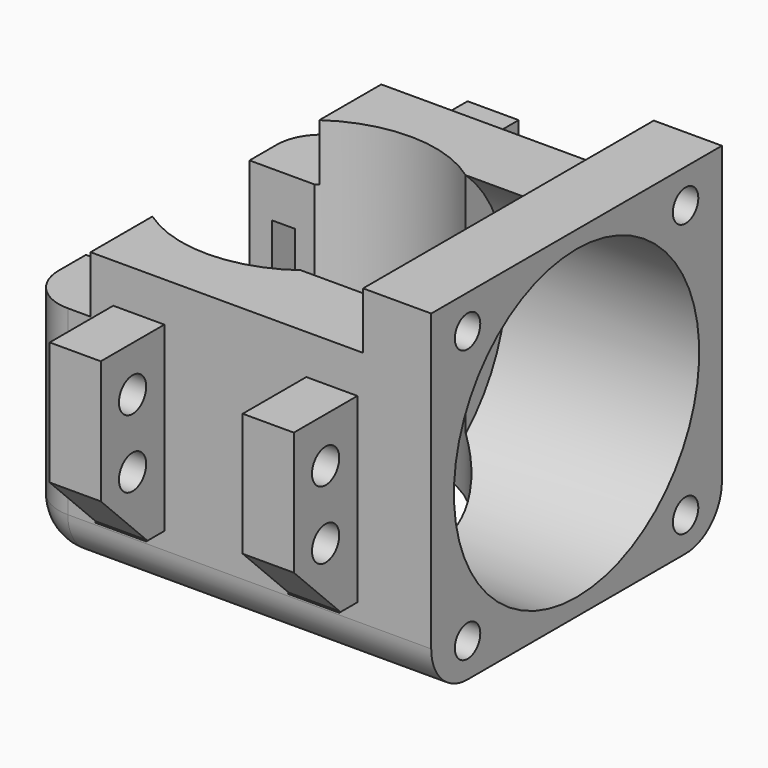
from build123d import *

# Parameters (mm, degrees)
BOX010_W                = 22
BOX010_H                = 10
BOX010_DEPTH            = 10
BOX010_ROLL_ANGLE       = 45
BOX009_W                = 22
BOX009_H                = 10
BOX009_DEPTH            = 10
BOX009_ROLL_ANGLE       = 45
CYLINDER010_R           = 1.5
CYLINDER010_DEPTH       = 40
CYLINDER010_PITCH_ANGLE = 90
CYLINDER011_R           = 1.5
CYLINDER011_DEPTH       = 40
CYLINDER011_PITCH_ANGLE = 90
CYLINDER012_R           = 1.5
CYLINDER012_DEPTH       = 40
CYLINDER012_PITCH_ANGLE = 90
CYLINDER009_R           = 1.5
CYLINDER009_DEPTH       = 40
CYLINDER009_PITCH_ANGLE = 90
BOX004_W                = 2
BOX004_H                = 32
BOX004_DEPTH            = 6
CYLINDER_R              = 11.2
CYLINDER_DEPTH          = 25
CYLINDER001_R           = 13.5
CYLINDER001_DEPTH       = 18
CYLINDER001_PITCH_ANGLE = 90
CYLINDER003_R           = 1.4
CYLINDER003_DEPTH       = 20
CYLINDER003_PITCH_ANGLE = 90
CYLINDER005_R           = 1.4
CYLINDER005_DEPTH       = 20
CYLINDER005_PITCH_ANGLE = 90
CYLINDER004_R           = 1.4
CYLINDER004_DEPTH       = 20
CYLINDER004_PITCH_ANGLE = 90
CYLINDER002_R           = 1.4
CYLINDER002_DEPTH       = 20
CYLINDER002_PITCH_ANGLE = 90
BOX002_W                = 6
BOX002_H                = 7
BOX002_DEPTH            = 20
BOX006_W                = 4.5
BOX006_H                = 7
BOX006_DEPTH            = 16
BOX007_W                = 4.5
BOX007_H                = 7
BOX007_DEPTH            = 16
BOX008_W                = 4.5
BOX008_H                = 7
BOX008_DEPTH            = 16
BOX005_W                = 4.5
BOX005_H                = 7
BOX005_DEPTH            = 16
BOX003_W                = 6
BOX003_H                = 7
BOX003_DEPTH            = 20
BOX001_W                = 6
BOX001_H                = 32
BOX001_DEPTH            = 30
BOX_W                   = 24
BOX_H                   = 32
BOX_DEPTH               = 25
FILLET_R                = 4
FILLET001_R             = 4
FILLET002_R             = 4
FILLET003_R             = 4


with BuildPart() as cube010:
    # Box010 → Box010 (new body)
    with BuildSketch(Plane.XY):
        with Locations((11, 5)):
            Rectangle(BOX010_W, BOX010_H)
    extrude(amount=BOX010_DEPTH)


with BuildPart() as cube010_1:
    # Box010 roll: moved
    add(cube010.part.rotate(Axis((0, 0, 0), (1, 0, 0)), BOX010_ROLL_ANGLE))


with BuildPart() as cube010_2:
    # Box010 placement: moved
    add(cube010_1.part.moved(Location((2, 41, -7))))


with BuildPart() as fusionwingcuts:
    # Box009 → Box009 (new body)
    with BuildSketch(Plane.XY):
        with Locations((11, 5)):
            Rectangle(BOX009_W, BOX009_H)
    extrude(amount=BOX009_DEPTH)


with BuildPart() as fusionwingcuts_1:
    # Box009 roll: moved
    add(fusionwingcuts.part.rotate(Axis((0, 0, 0), (1, 0, 0)), BOX009_ROLL_ANGLE))


with BuildPart() as fusionwingcuts_2:
    # Box009 placement: moved
    add(fusionwingcuts_1.part.moved(Location((2, -9, -7))))

    # Fusion005: union Cube010
    add(cube010_2.part)


with BuildPart() as fusionwingcuts_3:
    # Fusion005 placement: moved
    add(fusionwingcuts_2.part.moved(Location((0, 0, 5.5))))


with BuildPart() as cylinder010:
    # Cylinder010 → Cylinder010 (new body)
    with BuildSketch(Plane.XY):
        Circle(CYLINDER010_R)
    extrude(amount=CYLINDER010_DEPTH)


with BuildPart() as cylinder010_1:
    # Cylinder010 pitch: moved
    add(cylinder010.part.rotate(Axis((0, 0, 0), (0, 1, 0)), CYLINDER010_PITCH_ANGLE))


with BuildPart() as cylinder010_2:
    # Cylinder010 placement: moved
    add(cylinder010_1.part.moved(Location((0, -3.5, 6))))


with BuildPart() as cylinder011:
    # Cylinder011 → Cylinder011 (new body)
    with BuildSketch(Plane.XY):
        Circle(CYLINDER011_R)
    extrude(amount=CYLINDER011_DEPTH)


with BuildPart() as cylinder011_1:
    # Cylinder011 pitch: moved
    add(cylinder011.part.rotate(Axis((0, 0, 0), (0, 1, 0)), CYLINDER011_PITCH_ANGLE))


with BuildPart() as cylinder011_2:
    # Cylinder011 placement: moved
    add(cylinder011_1.part.moved(Location((0, 35.5, 12))))


with BuildPart() as cylinder012:
    # Cylinder012 → Cylinder012 (new body)
    with BuildSketch(Plane.XY):
        Circle(CYLINDER012_R)
    extrude(amount=CYLINDER012_DEPTH)


with BuildPart() as cylinder012_1:
    # Cylinder012 pitch: moved
    add(cylinder012.part.rotate(Axis((0, 0, 0), (0, 1, 0)), CYLINDER012_PITCH_ANGLE))


with BuildPart() as cylinder012_2:
    # Cylinder012 placement: moved
    add(cylinder012_1.part.moved(Location((0, 35.5, 6))))


with BuildPart() as fusionwingscrews:
    # Cylinder009 → Cylinder009 (new body)
    with BuildSketch(Plane.XY):
        Circle(CYLINDER009_R)
    extrude(amount=CYLINDER009_DEPTH)


with BuildPart() as fusionwingscrews_1:
    # Cylinder009 pitch: moved
    add(fusionwingscrews.part.rotate(Axis((0, 0, 0), (0, 1, 0)), CYLINDER009_PITCH_ANGLE))


with BuildPart() as fusionwingscrews_2:
    # Cylinder009 placement: moved
    add(fusionwingscrews_1.part.moved(Location((0, -3.5, 12))))

    # Fusion004: union Cylinder010, Cylinder011, Cylinder012
    add(cylinder010_2.part)
    add(cylinder011_2.part)
    add(cylinder012_2.part)


with BuildPart() as fusionwingscrews_3:
    # Fusion004 placement: moved
    add(fusionwingscrews_2.part.moved(Location((0, 0, 5.5))))


with BuildPart() as obj1:
    # Box004 → Box004 (new body)
    with BuildSketch(Plane(origin=(-4, 0, 10), x_dir=(1, 0, 0), z_dir=(0, 0, 1))):
        with Locations((1, 16)):
            Rectangle(BOX004_W, BOX004_H)
    extrude(amount=BOX004_DEPTH)


with BuildPart() as cylinderheatsink:
    # Cylinder → Cylinder (new body)
    with BuildSketch(Plane(origin=(6.4, 16, 0), x_dir=(1, 0, 0), z_dir=(0, 0, 1))):
        Circle(CYLINDER_R)
    extrude(amount=CYLINDER_DEPTH)


with BuildPart() as cylinderfan:
    # Cylinder001 → Cylinder001 (new body)
    with BuildSketch(Plane.XY):
        Circle(CYLINDER001_R)
    extrude(amount=CYLINDER001_DEPTH)


with BuildPart() as cylinderfan_1:
    # Cylinder001 pitch: moved
    add(cylinderfan.part.rotate(Axis((0, 0, 0), (0, 1, 0)), CYLINDER001_PITCH_ANGLE))


with BuildPart() as cylinderfan_2:
    # Cylinder001 placement: moved
    add(cylinderfan_1.part.moved(Location((13, 16, 15))))


with BuildPart() as obj2:
    # Cylinder003 → Cylinder003 (new body)
    with BuildSketch(Plane.XY):
        Circle(CYLINDER003_R)
    extrude(amount=CYLINDER003_DEPTH)


with BuildPart() as obj2_1:
    # Cylinder003 pitch: moved
    add(obj2.part.rotate(Axis((0, 0, 0), (0, 1, 0)), CYLINDER003_PITCH_ANGLE))


with BuildPart() as obj2_2:
    # Cylinder003 placement: moved
    add(obj2_1.part.moved(Location((20, 4, 27))))


with BuildPart() as obj3:
    # Cylinder005 → Cylinder005 (new body)
    with BuildSketch(Plane.XY):
        Circle(CYLINDER005_R)
    extrude(amount=CYLINDER005_DEPTH)


with BuildPart() as obj3_1:
    # Cylinder005 pitch: moved
    add(obj3.part.rotate(Axis((0, 0, 0), (0, 1, 0)), CYLINDER005_PITCH_ANGLE))


with BuildPart() as obj3_2:
    # Cylinder005 placement: moved
    add(obj3_1.part.moved(Location((20, 28, 3))))


with BuildPart() as obj4:
    # Cylinder004 → Cylinder004 (new body)
    with BuildSketch(Plane.XY):
        Circle(CYLINDER004_R)
    extrude(amount=CYLINDER004_DEPTH)


with BuildPart() as obj4_1:
    # Cylinder004 pitch: moved
    add(obj4.part.rotate(Axis((0, 0, 0), (0, 1, 0)), CYLINDER004_PITCH_ANGLE))


with BuildPart() as obj4_2:
    # Cylinder004 placement: moved
    add(obj4_1.part.moved(Location((20, 28, 27))))


with BuildPart() as fusioncuts:
    # Cylinder002 → Cylinder002 (new body)
    with BuildSketch(Plane.XY):
        Circle(CYLINDER002_R)
    extrude(amount=CYLINDER002_DEPTH)


with BuildPart() as fusioncuts_1:
    # Cylinder002 pitch: moved
    add(fusioncuts.part.rotate(Axis((0, 0, 0), (0, 1, 0)), CYLINDER002_PITCH_ANGLE))


with BuildPart() as fusioncuts_2:
    # Cylinder002 placement: moved
    add(fusioncuts_1.part.moved(Location((20, 4, 3))))

    # Fusion001: union obj2, obj3, obj4
    add(obj2_2.part)
    add(obj3_2.part)
    add(obj4_2.part)

    # Fusion: union FusionWingCuts, FusionWingScrews, obj1, CylinderHeatSink, CylinderFan
    add(fusionwingcuts_3.part)
    add(fusionwingscrews_3.part)
    add(obj1.part)
    add(cylinderheatsink.part)
    add(cylinderfan_2.part)


with BuildPart() as obj5:
    # Box002 → Box002 (new body)
    with BuildSketch(Plane(origin=(-6, 0, 0), x_dir=(1, 0, 0), z_dir=(0, 0, 1))):
        with Locations((3, 3.5)):
            Rectangle(BOX002_W, BOX002_H)
    extrude(amount=BOX002_DEPTH)


with BuildPart() as cube006:
    # Box006 → Box006 (new body)
    with BuildSketch(Plane(origin=(19, -7, 0), x_dir=(1, 0, 0), z_dir=(0, 0, 1))):
        with Locations((2.25, 3.5)):
            Rectangle(BOX006_W, BOX006_H)
    extrude(amount=BOX006_DEPTH)


with BuildPart() as cube007:
    # Box007 → Box007 (new body)
    with BuildSketch(Plane(origin=(2, 32, 0), x_dir=(1, 0, 0), z_dir=(0, 0, 1))):
        with Locations((2.25, 3.5)):
            Rectangle(BOX007_W, BOX007_H)
    extrude(amount=BOX007_DEPTH)


with BuildPart() as cube008:
    # Box008 → Box008 (new body)
    with BuildSketch(Plane(origin=(19, 32, 0), x_dir=(1, 0, 0), z_dir=(0, 0, 1))):
        with Locations((2.25, 3.5)):
            Rectangle(BOX008_W, BOX008_H)
    extrude(amount=BOX008_DEPTH)


with BuildPart() as fusionwings:
    # Box005 → Box005 (new body)
    with BuildSketch(Plane(origin=(2, -7, 0), x_dir=(1, 0, 0), z_dir=(0, 0, 1))):
        with Locations((2.25, 3.5)):
            Rectangle(BOX005_W, BOX005_H)
    extrude(amount=BOX005_DEPTH)

    # Fusion006: union Cube006, Cube007, Cube008
    add(cube006.part)
    add(cube007.part)
    add(cube008.part)


with BuildPart() as fusionwings_1:
    # Fusion006 placement: moved
    add(fusionwings.part.moved(Location((0, 0, 5.5))))


with BuildPart() as obj6:
    # Box003 → Box003 (new body)
    with BuildSketch(Plane(origin=(-6, 25, 0), x_dir=(1, 0, 0), z_dir=(0, 0, 1))):
        with Locations((3, 3.5)):
            Rectangle(BOX003_W, BOX003_H)
    extrude(amount=BOX003_DEPTH)


with BuildPart() as obj7:
    # Box001 → Box001 (new body)
    with BuildSketch(Plane(origin=(24, 0, 0), x_dir=(1, 0, 0), z_dir=(0, 0, 1))):
        with Locations((3, 16)):
            Rectangle(BOX001_W, BOX001_H)
    extrude(amount=BOX001_DEPTH)


with BuildPart() as obj8:
    # Box → Box (new body)
    with BuildSketch(Plane.XY):
        with Locations((12, 16)):
            Rectangle(BOX_W, BOX_H)
    extrude(amount=BOX_DEPTH)

    # Fusion007: union obj5, FusionWings, obj6, obj7
    add(obj5.part)
    add(fusionwings_1.part)
    add(obj6.part)
    add(obj7.part)

    # Fillet
    fillet_edges = [obj8.edges().sort_by_distance(p)[0] for p in [
        (-6, 3.5, 0),
    ]]
    fillet(fillet_edges, radius=FILLET_R)

    # Fillet001
    fillet001_edges = [obj8.edges().sort_by_distance(p)[0] for p in [
        (12, 0, 0),
    ]]
    fillet(fillet001_edges, radius=FILLET001_R)

    # Fillet002
    fillet002_edges = [obj8.edges().sort_by_distance(p)[0] for p in [
        (12, 32, 0),
    ]]
    fillet(fillet002_edges, radius=FILLET002_R)

    # Fillet003
    fillet003_edges = [obj8.edges().sort_by_distance(p)[0] for p in [
        (-6, 26.5, 0),
    ]]
    fillet(fillet003_edges, radius=FILLET003_R)

    # Cut: cut FusionCUTS
    add(fusioncuts_2.part, mode=Mode.SUBTRACT)


solid = obj8.part
